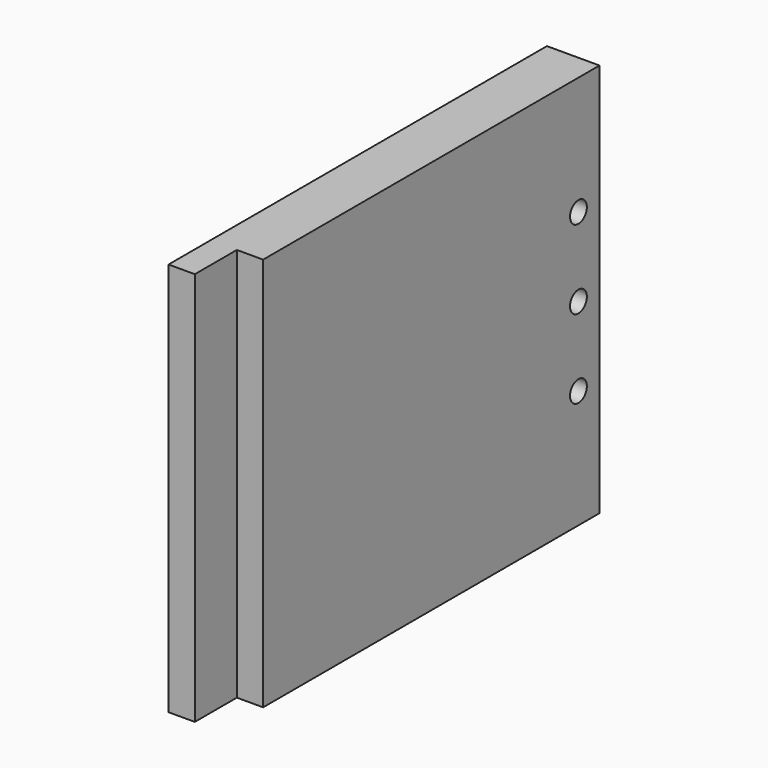
from build123d import *

# Parameters (mm, degrees)
F0_W     = 180
F0_H     = 150
F1_DEPTH = 20
F2_R     = 4
F3_DEPTH = 10
F4_W     = 20
F4_H     = 150
F5_DEPTH = 10
F6_ANGLE = 90


with BuildPart() as f1:
    # F0 (on Front) → F1 (new body)
    with BuildSketch(Plane.XZ):
        with Locations((-90, 75)):
            Rectangle(F0_W, F0_H)
    extrude(amount=F1_DEPTH)

    # F2 (on face) → F3 (cut)
    with BuildSketch(Plane.XZ.offset(20)):
        with Locations((-10, 105)):
            Circle(F2_R)
        with Locations((-10, 75)):
            Circle(F2_R)
        with Locations((-10, 45)):
            Circle(F2_R)
    extrude(amount=-F3_DEPTH, mode=Mode.SUBTRACT)

    # F4 (on face) → F5 (cut)
    with BuildSketch(Plane.XZ.offset(20)):
        with Locations((-170, 75)):
            Rectangle(F4_W, F4_H)
    extrude(amount=-F5_DEPTH, mode=Mode.SUBTRACT)


with BuildPart() as f1_1:
    # F6: moved
    add(f1.part.rotate(Axis((-180, 0, 75), (0, 0, 1)), F6_ANGLE))


solid = f1_1.part
